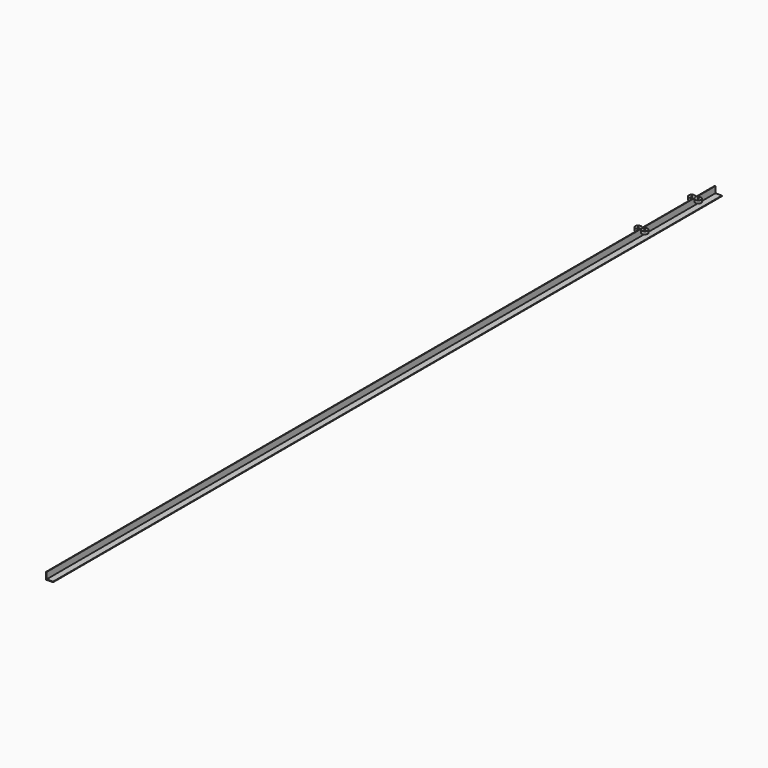
from build123d import *

# Parameters (mm, degrees)
F1_DEPTH = 2400
F2_R     = 8.455967
F2_R_2   = 1.626978
F3_DEPTH = 8


with BuildPart() as f1:
    # F0 (on Front) → F1 (new body)
    with BuildSketch(Plane.XZ):
        Polygon((0, 20), (0, 0), (20, 0), (20, 1.6), (1.6, 1.6), (1.6, 20), align=None)
    extrude(amount=F1_DEPTH)


with BuildPart() as f3:
    # F2 (on face) → F3 (new body)
    with BuildSketch(Plane.XY.offset(20)):
        with Locations((-8.455967, -264.854193)):
            Circle(F2_R)
        with Locations((-8.455967, -264.854193)):
            Circle(F2_R_2, mode=Mode.SUBTRACT)
        with Locations((10.055967, -264.854193)):
            Circle(F2_R)
        with Locations((10.055967, -264.854193)):
            Circle(F2_R_2, mode=Mode.SUBTRACT)
        with Locations((-8.455967, -72.663933)):
            Circle(F2_R)
        with Locations((-8.455967, -72.663933)):
            Circle(F2_R_2, mode=Mode.SUBTRACT)
        with Locations((10.055967, -72.663933)):
            Circle(F2_R)
        with Locations((10.055967, -72.663933)):
            Circle(F2_R_2, mode=Mode.SUBTRACT)
    extrude(amount=-F3_DEPTH)


solid = Compound([f1.part, f3.part])
